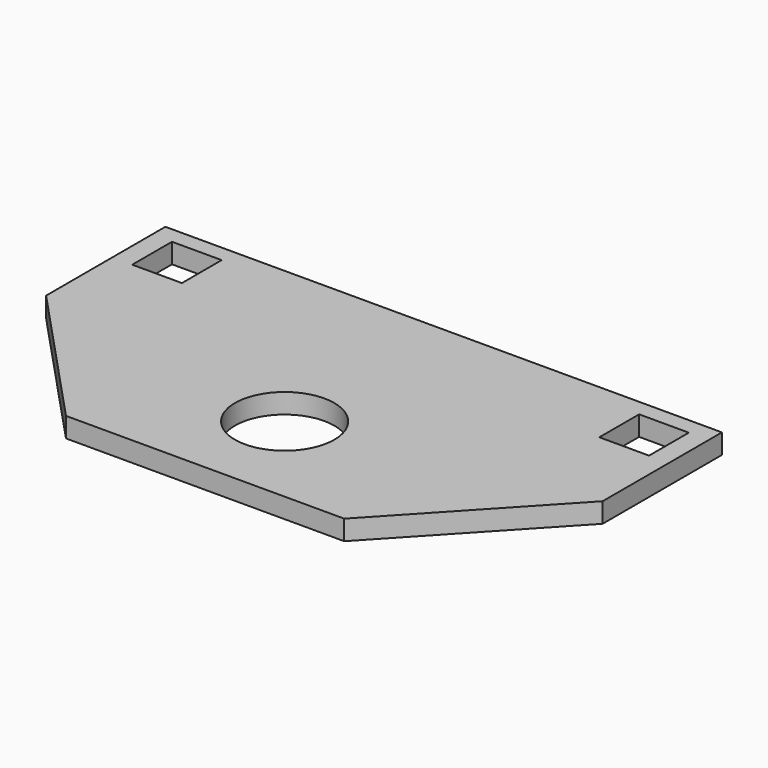
from build123d import *

# Parameters (mm, degrees)
F0_W     = 140
F0_H     = 75
F1_DEPTH = 5
F2_W     = 12.5
F2_H     = 12.5
F3_DEPTH = 25
F4_R     = 12.5
F5_DEPTH = 25
F7_DEPTH = 25


with BuildPart() as f1:
    # F0 (on Top) → F1 (new body)
    with BuildSketch(Plane.XY):
        with Locations((2.230102, 8.409632)):
            Rectangle(F0_W, F0_H)
    extrude(amount=F1_DEPTH)

    # F2 (on face) → F3 (cut)
    with BuildSketch(Plane.XY.offset(5)):
        with Locations((-56.519898, 35.497632)):
            Rectangle(F2_W, F2_H)
        with Locations((60.980102, 35.497632)):
            Rectangle(F2_W, F2_H)
    extrude(amount=-F3_DEPTH, mode=Mode.SUBTRACT)

    # F4 (on face) → F5 (cut)
    with BuildSketch(Plane.XY.offset(5)):
        with Locations((2.230102, -4.090368)):
            Circle(F4_R)
    extrude(amount=-F5_DEPTH, mode=Mode.SUBTRACT)

    # F6 (on face) → F7 (cut)
    with BuildSketch(Plane.XY.offset(5)):
        Polygon((-32.769898, -29.090368), (-67.769898, 8.409632), (-67.769898, -29.090368), align=None)
        Polygon((72.230102, -29.090368), (72.230102, 8.409632), (37.230102, -29.090368), align=None)
    extrude(amount=-F7_DEPTH, mode=Mode.SUBTRACT)


solid = f1.part
